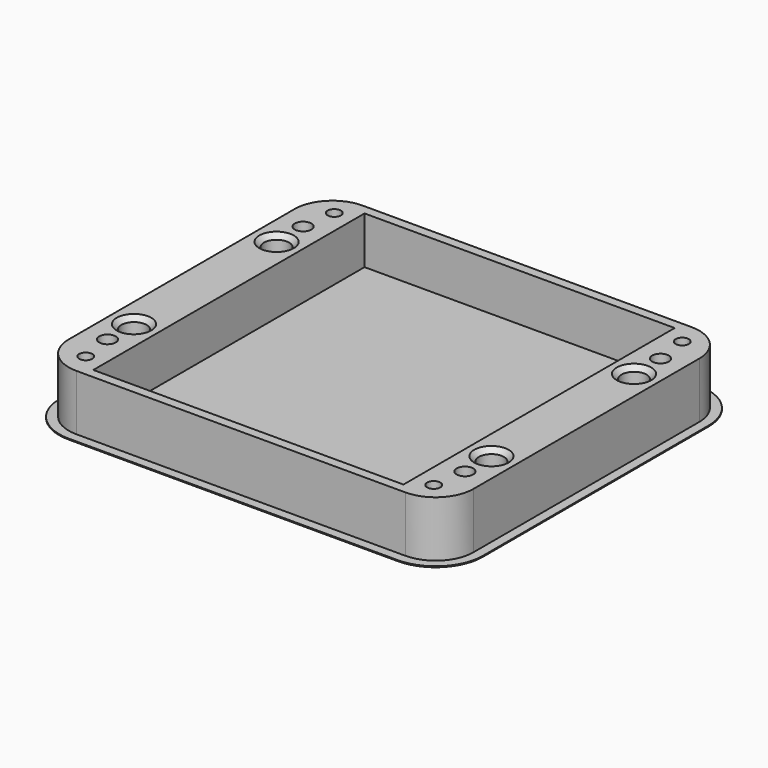
from build123d import *

# Parameters (mm, degrees)
F1_DEPTH = 2
F2_R     = 2.65
F2_W     = 65.6
F2_H     = 71.7
F3_DEPTH = 10
F4_R     = 1.4
F4_R_2   = 1.75
F5_DEPTH = 12
F6_SIZE  = 1
F8_DEPTH = 0.2


with BuildPart() as f1:
    # F0 (on Top) → F1 (new body)
    with BuildSketch(Plane.XY):
        with BuildLine():
            Line((34.8, 37.85), (-34.8, 37.85))
            ThreePointArc((-34.8, 37.85), (-40.456854, 35.506854), (-42.8, 29.85))
            Line((-42.8, 29.85), (-42.8, -29.85))
            ThreePointArc((-42.8, -29.85), (-40.456854, -35.506854), (-34.8, -37.85))
            Line((-34.8, -37.85), (34.8, -37.85))
            ThreePointArc((34.8, -37.85), (40.456854, -35.506854), (42.8, -29.85))
            Line((42.8, -29.85), (42.8, 29.85))
            ThreePointArc((42.8, 29.85), (40.456854, 35.506854), (34.8, 37.85))
        make_face()
    extrude(amount=F1_DEPTH)

    # F2 (on face) → F3 (join)
    with BuildSketch(Plane.XY.offset(2)):
        with BuildLine():
            ThreePointArc((-34.8, 37.85), (-40.456854, 35.506854), (-42.8, 29.85))
            Line((-42.8, 29.85), (-42.8, -29.85))
            ThreePointArc((-42.8, -29.85), (-40.456854, -35.506854), (-34.8, -37.85))
            Line((-34.8, -37.85), (34.8, -37.85))
            ThreePointArc((34.8, -37.85), (40.456854, -35.506854), (42.8, -29.85))
            Line((42.8, -29.85), (42.8, 29.85))
            ThreePointArc((42.8, 29.85), (40.456854, 35.506854), (34.8, 37.85))
            Line((34.8, 37.85), (-34.8, 37.85))
        make_face()
        with Locations((-37.8, -18.85)):
            Circle(F2_R, mode=Mode.SUBTRACT)
        with Locations((37.8, -18.85)):
            Circle(F2_R, mode=Mode.SUBTRACT)
        with Locations((-37.8, 18.85)):
            Circle(F2_R, mode=Mode.SUBTRACT)
        Rectangle(F2_W, F2_H, mode=Mode.SUBTRACT)
        with Locations((37.8, 18.85)):
            Circle(F2_R, mode=Mode.SUBTRACT)
    extrude(amount=F3_DEPTH)

    # F4 (on face) → F5 (cut, through all)
    with BuildSketch(Plane.XY.offset(12)):
        with Locations((-36.8, -32.85)):
            Circle(F4_R)
        with Locations((36.8, -32.85)):
            Circle(F4_R)
        with Locations((-36.8, 32.85)):
            Circle(F4_R)
        with Locations((36.8, 32.85)):
            Circle(F4_R)
        with Locations((-37.8, -25.85)):
            Circle(F4_R_2)
        with Locations((37.8, -25.85)):
            Circle(F4_R_2)
        with Locations((-37.8, 25.85)):
            Circle(F4_R_2)
        with Locations((37.8, 25.85)):
            Circle(F4_R_2)
    extrude(amount=-F5_DEPTH, mode=Mode.SUBTRACT)

    # F6
    f6_edges = [f1.edges().sort_by_distance(p)[0] for p in [
        (-40.45, 18.85, 12),
        (35.15, 18.85, 12),
        (35.15, -18.85, 12),
        (-40.45, -18.85, 12),
    ]]
    chamfer(f6_edges, length=F6_SIZE)

    # F7 (on face) → F8 (join)
    with BuildSketch(Plane(origin=(0, 0, 0), x_dir=(1, 0, 0), z_dir=(0, 0, -1))):
        with BuildLine():
            Line((34.8, 39.85), (-34.8, 39.85))
            ThreePointArc((-34.8, 39.85), (-41.871068, 36.921068), (-44.8, 29.85))
            Line((-44.8, 29.85), (-44.8, -29.85))
            ThreePointArc((-44.8, -29.85), (-41.871068, -36.921068), (-34.8, -39.85))
            Line((-34.8, -39.85), (34.8, -39.85))
            ThreePointArc((34.8, -39.85), (41.871068, -36.921068), (44.8, -29.85))
            Line((44.8, -29.85), (44.8, 29.85))
            ThreePointArc((44.8, 29.85), (41.871068, 36.921068), (34.8, 39.85))
        make_face()
        with BuildLine():
            Line((-42.8, -29.85), (-42.8, 29.85))
            ThreePointArc((-42.8, 29.85), (-40.456854, 35.506854), (-34.8, 37.85))
            Line((-34.8, 37.85), (34.8, 37.85))
            ThreePointArc((34.8, 37.85), (40.456854, 35.506854), (42.8, 29.85))
            Line((42.8, 29.85), (42.8, -29.85))
            ThreePointArc((42.8, -29.85), (40.456854, -35.506854), (34.8, -37.85))
            Line((34.8, -37.85), (-34.8, -37.85))
            ThreePointArc((-34.8, -37.85), (-40.456854, -35.506854), (-42.8, -29.85))
        make_face(mode=Mode.SUBTRACT)
    extrude(amount=-F8_DEPTH)


solid = f1.part
